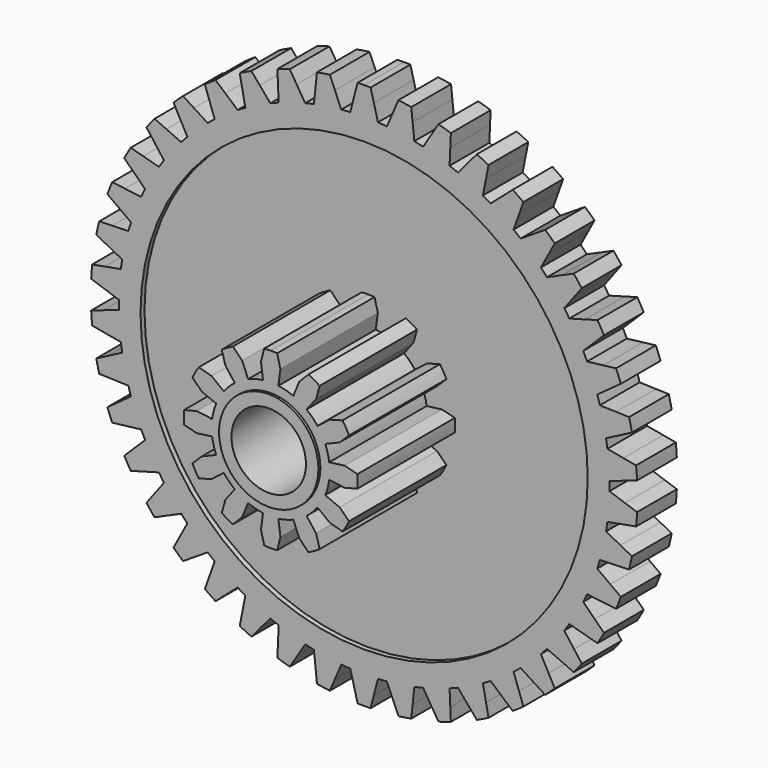
from build123d import *

# Parameters (mm, degrees)
F0_R      = 9.875
F1_DEPTH  = 2
F3_DEPTH  = 2
F4_R      = 9
F5_DEPTH  = 0.2
F7_DEPTH  = 4.9
F8_R      = 2
F9_DEPTH  = 0.1
F10_R     = 9
F11_DEPTH = 0.5
F14_R     = 1.5
F15_DEPTH = 25


with BuildPart() as f1:
    # F0 (on Front) → F1 (new body)
    with BuildSketch(Plane.XZ):
        Circle(F0_R)
    extrude(amount=F1_DEPTH)

    # F2 (on Front) → F3 (join)
    with BuildSketch(Plane.XZ):
        with BuildLine():
            Line((10.4339782039, 1.1756269991), (9.7900083646, 1.2928113632))
            ThreePointArc((9.7900083646, 1.2928113632), (9.8473874972, 0.7379596742), (9.8733455952, 0.1807533041))
            Line((9.8733455952, 0.1807533041), (10.4926574003, 0.3926075399))
            Line((10.4926574003, 0.3926075399), (10.9856720066, 0.561258019))
            ThreePointArc((10.9856720066, 0.561258019), (10.969241769, 0.8220310295), (10.946622294, 1.0823402207))
            Line((10.946622294, 1.0823402207), (10.4339782039, 1.1756269991))
        make_face()
        with BuildLine():
            Line((10.142221176, 2.7175999736), (9.4879785246, 2.737496761))
            ThreePointArc((9.4879785246, 2.737496761), (9.6274131328, 2.1973942228), (9.7361286005, 1.6502802413))
            Line((9.7361286005, 1.6502802413), (10.3169479689, 1.9520718752))
            Line((10.3169479689, 1.9520718752), (10.7793199598, 2.192318682))
            ThreePointArc((10.7793199598, 2.192318682), (10.724207034, 2.4477302735), (10.6630431281, 2.7017607683))
            Line((10.6630431281, 2.7017607683), (10.142221176, 2.7175999736))
        make_face()
        with BuildLine():
            Line((9.6239036866, 4.1988662554), (8.9740029228, 4.1210310047))
            ThreePointArc((8.9740029228, 4.1210310047), (9.1923782679, 3.6077426156), (9.3814225813, 3.0829426449))
            Line((9.3814225813, 3.0829426449), (9.9107749682, 3.4679301505))
            Line((9.9107749682, 3.4679301505), (10.3321757175, 3.7744065683))
            ThreePointArc((10.3321757175, 3.7744065683), (10.2396112351, 4.018751268), (10.1412691988, 4.2608284449))
            Line((10.1412691988, 4.2608284449), (9.6239036866, 4.1988662554))
        make_face()
        with BuildLine():
            Line((8.8906040919, 5.5863368034), (8.2595629248, 5.4125082255))
            ThreePointArc((8.2595629248, 5.4125082255), (8.5520008624, 4.9375), (8.8171510839, 4.4467372042))
            Line((8.8171510839, 4.4467372042), (9.2832116318, 4.9063205969))
            Line((9.2832116318, 4.9063205969), (9.654227743, 5.2721804489))
            ThreePointArc((9.654227743, 5.2721804489), (9.5262794416, 5.5), (9.3929560736, 5.7247162549))
            Line((9.3929560736, 5.7247162549), (8.8906040919, 5.5863368034))
        make_face()
        with BuildLine():
            Line((7.958703093, 6.8490178184), (7.3606179395, 6.5830789565))
            ThreePointArc((7.3606179395, 6.5830789565), (7.7205858894, 6.1569617934), (8.0559190012, 5.7111990024))
            Line((8.0559190012, 5.7111990024), (8.4482766876, 6.2351119485))
            Line((8.4482766876, 6.2351119485), (8.7606202739, 6.6521825303))
            ThreePointArc((8.7606202739, 6.6521825303), (8.6001463071, 6.8583878204), (8.4348198311, 7.0607233635))
            Line((8.4348198311, 7.0607233635), (7.958703093, 6.8490178184))
        make_face()
        with BuildLine():
            Line((6.8490178184, 7.958703093), (6.2972489126, 7.6065945819))
            ThreePointArc((6.2972489126, 7.6065945819), (6.7167057855, 7.2388872343), (7.114731, 6.8480820524))
            Line((7.114731, 6.8480820524), (7.4246212025, 7.4246212025))
            Line((7.4246212025, 7.4246212025), (7.6713150243, 7.8835858464))
            ThreePointArc((7.6713150243, 7.8835858464), (7.4819001155, 8.0635705901), (7.2882636517, 8.2390055797))
            Line((7.2882636517, 8.2390055797), (6.8490178184, 7.958703093))
        make_face()
        with BuildLine():
            Line((5.5863368034, 8.8906040919), (5.0932097508, 8.4601914538))
            ThreePointArc((5.0932097508, 8.4601914538), (5.5627855734, 8.1591078964), (6.0146116651, 7.8319902654))
            Line((6.0146116651, 7.8319902654), (6.2351119485, 8.4482766876))
            Line((6.2351119485, 8.4482766876), (6.4106452736, 8.9388828819))
            ThreePointArc((6.4106452736, 8.9388828819), (6.1965206387, 9.0886265175), (5.9788997058, 9.2332420258))
            Line((5.9788997058, 9.2332420258), (5.5863368034, 8.8906040919))
        make_face()
        with BuildLine():
            Line((4.1988662554, 9.6239036866), (3.7753966995, 9.1248016286))
            ThreePointArc((3.7753966995, 9.1248016286), (4.2846019238, 8.8970675705), (4.7801358444, 8.6409447579))
            Line((4.7801358444, 8.6409447579), (4.9063205969, 9.2832116318))
            Line((4.9063205969, 9.2832116318), (5.0067723007, 9.7945000449))
            ThreePointArc((5.0067723007, 9.7945000449), (4.7727211303, 9.9106575469), (4.5359770204, 10.0212231025))
            Line((4.5359770204, 10.0212231025), (4.1988662554, 9.6239036866))
        make_face()
        with BuildLine():
            Line((2.7175999736, 10.142221176), (2.3732475245, 9.5855788134))
            ThreePointArc((2.3732475245, 9.5855788134), (2.9107073473, 9.4362814571), (3.4388796879, 9.2568748232))
            Line((3.4388796879, 9.2568748232), (3.4679301505, 9.9107749682))
            Line((3.4679301505, 9.9107749682), (3.4910563081, 10.4313242617))
            ThreePointArc((3.4910563081, 10.4313242617), (3.2423069185, 10.5113008636), (2.9917281037, 10.5853466147))
            Line((2.9917281037, 10.5853466147), (2.7175999736, 10.142221176))
        make_face()
        with BuildLine():
            Line((1.1756269991, 10.4339782039), (0.9180839216, 9.8322300071))
            ThreePointArc((0.9180839216, 9.8322300071), (1.4717923785, 9.764704409), (2.0208046417, 9.6660216015))
            Line((2.0208046417, 9.6660216015), (1.9520718752, 10.3169479689))
            Line((1.9520718752, 10.3169479689), (1.8973558864, 10.8351299319))
            ThreePointArc((1.8973558864, 10.8351299319), (1.6394649279, 10.8771390885), (1.3806489249, 10.9130109753))
            Line((1.3806489249, 10.9130109753), (1.1756269991, 10.4339782039))
        make_face()
        with BuildLine():
            ThreePointArc((-2.0208046417, 9.6660216015), (-1.4717923785, 9.764704409), (-0.9180839216, 9.8322300071))
            Line((-0.9180839216, 9.8322300071), (-1.1756269991, 10.4339782039))
            Line((-1.1756269991, 10.4339782039), (-1.3806489249, 10.9130109753))
            ThreePointArc((-1.3806489249, 10.9130109753), (-1.6394649279, 10.8771390885), (-1.8973558864, 10.8351299319))
            Line((-1.8973558864, 10.8351299319), (-1.9520718752, 10.3169479689))
            Line((-1.9520718752, 10.3169479689), (-2.0208046417, 9.6660216015))
        make_face()
        with BuildLine():
            ThreePointArc((-3.4388796879, 9.2568748232), (-2.9107073473, 9.4362814571), (-2.3732475245, 9.5855788134))
            Line((-2.3732475245, 9.5855788134), (-2.7175999736, 10.142221176))
            Line((-2.7175999736, 10.142221176), (-2.9917281037, 10.5853466147))
            ThreePointArc((-2.9917281037, 10.5853466147), (-3.2423069185, 10.5113008636), (-3.4910563081, 10.4313242617))
            Line((-3.4910563081, 10.4313242617), (-3.4679301505, 9.9107749682))
            Line((-3.4679301505, 9.9107749682), (-3.4388796879, 9.2568748232))
        make_face()
        with BuildLine():
            ThreePointArc((-4.7801358444, 8.6409447579), (-4.2846019238, 8.8970675705), (-3.7753966995, 9.1248016286))
            Line((-3.7753966995, 9.1248016286), (-4.1988662554, 9.6239036866))
            Line((-4.1988662554, 9.6239036866), (-4.5359770204, 10.0212231025))
            ThreePointArc((-4.5359770204, 10.0212231025), (-4.7727211303, 9.9106575469), (-5.0067723007, 9.7945000449))
            Line((-5.0067723007, 9.7945000449), (-4.9063205969, 9.2832116318))
            Line((-4.9063205969, 9.2832116318), (-4.7801358444, 8.6409447579))
        make_face()
        with BuildLine():
            ThreePointArc((-6.0146116651, 7.8319902654), (-5.5627855734, 8.1591078964), (-5.0932097508, 8.4601914538))
            Line((-5.0932097508, 8.4601914538), (-5.5863368034, 8.8906040919))
            Line((-5.5863368034, 8.8906040919), (-5.9788997058, 9.2332420258))
            ThreePointArc((-5.9788997058, 9.2332420258), (-6.1965206387, 9.0886265175), (-6.4106452736, 8.9388828819))
            Line((-6.4106452736, 8.9388828819), (-6.2351119485, 8.4482766876))
            Line((-6.2351119485, 8.4482766876), (-6.0146116651, 7.8319902654))
        make_face()
        with BuildLine():
            ThreePointArc((-7.114731, 6.8480820524), (-6.7167057855, 7.2388872343), (-6.2972489126, 7.6065945819))
            Line((-6.2972489126, 7.6065945819), (-6.8490178184, 7.958703093))
            Line((-6.8490178184, 7.958703093), (-7.2882636517, 8.2390055797))
            ThreePointArc((-7.2882636517, 8.2390055797), (-7.4819001155, 8.0635705901), (-7.6713150243, 7.8835858464))
            Line((-7.6713150243, 7.8835858464), (-7.4246212025, 7.4246212025))
            Line((-7.4246212025, 7.4246212025), (-7.114731, 6.8480820524))
        make_face()
        with BuildLine():
            ThreePointArc((-8.0559190012, 5.7111990024), (-7.7205858894, 6.1569617934), (-7.3606179395, 6.5830789565))
            Line((-7.3606179395, 6.5830789565), (-7.958703093, 6.8490178184))
            Line((-7.958703093, 6.8490178184), (-8.4348198311, 7.0607233635))
            ThreePointArc((-8.4348198311, 7.0607233635), (-8.6001463071, 6.8583878204), (-8.7606202739, 6.6521825303))
            Line((-8.7606202739, 6.6521825303), (-8.4482766876, 6.2351119485))
            Line((-8.4482766876, 6.2351119485), (-8.0559190012, 5.7111990024))
        make_face()
        with BuildLine():
            ThreePointArc((-8.8171510839, 4.4467372042), (-8.5520008624, 4.9375), (-8.2595629248, 5.4125082255))
            Line((-8.2595629248, 5.4125082255), (-8.8906040919, 5.5863368034))
            Line((-8.8906040919, 5.5863368034), (-9.3929560736, 5.7247162549))
            ThreePointArc((-9.3929560736, 5.7247162549), (-9.5262794416, 5.5), (-9.654227743, 5.2721804489))
            Line((-9.654227743, 5.2721804489), (-9.2832116318, 4.9063205969))
            Line((-9.2832116318, 4.9063205969), (-8.8171510839, 4.4467372042))
        make_face()
        with BuildLine():
            ThreePointArc((-9.3814225813, 3.0829426449), (-9.1923782679, 3.6077426156), (-8.9740029228, 4.1210310047))
            Line((-8.9740029228, 4.1210310047), (-9.6239036866, 4.1988662554))
            Line((-9.6239036866, 4.1988662554), (-10.1412691988, 4.2608284449))
            ThreePointArc((-10.1412691988, 4.2608284449), (-10.2396112351, 4.018751268), (-10.3321757175, 3.7744065683))
            Line((-10.3321757175, 3.7744065683), (-9.9107749682, 3.4679301505))
            Line((-9.9107749682, 3.4679301505), (-9.3814225813, 3.0829426449))
        make_face()
        with BuildLine():
            ThreePointArc((-9.7361286005, 1.6502802413), (-9.6274131328, 2.1973942228), (-9.4879785246, 2.737496761))
            Line((-9.4879785246, 2.737496761), (-10.142221176, 2.7175999736))
            Line((-10.142221176, 2.7175999736), (-10.6630431281, 2.7017607683))
            ThreePointArc((-10.6630431281, 2.7017607683), (-10.724207034, 2.4477302735), (-10.7793199598, 2.192318682))
            Line((-10.7793199598, 2.192318682), (-10.3169479689, 1.9520718752))
            Line((-10.3169479689, 1.9520718752), (-9.7361286005, 1.6502802413))
        make_face()
        with BuildLine():
            ThreePointArc((-9.8733455952, 0.1807533041), (-9.8473874972, 0.7379596742), (-9.7900083646, 1.2928113632))
            Line((-9.7900083646, 1.2928113632), (-10.4339782039, 1.1756269991))
            Line((-10.4339782039, 1.1756269991), (-10.946622294, 1.0823402207))
            ThreePointArc((-10.946622294, 1.0823402207), (-10.969241769, 0.8220310295), (-10.9856720066, 0.561258019))
            Line((-10.9856720066, 0.561258019), (-10.4926574003, 0.3926075399))
            Line((-10.4926574003, 0.3926075399), (-9.8733455952, 0.1807533041))
        make_face()
        with BuildLine():
            ThreePointArc((-9.7900083646, -1.2928113632), (-9.8473874972, -0.7379596742), (-9.8733455952, -0.1807533041))
            Line((-9.8733455952, -0.1807533041), (-10.4926574003, -0.3926075399))
            Line((-10.4926574003, -0.3926075399), (-10.9856720066, -0.561258019))
            ThreePointArc((-10.9856720066, -0.561258019), (-10.969241769, -0.8220310295), (-10.946622294, -1.0823402207))
            Line((-10.946622294, -1.0823402207), (-10.4339782039, -1.1756269991))
            Line((-10.4339782039, -1.1756269991), (-9.7900083646, -1.2928113632))
        make_face()
        with BuildLine():
            ThreePointArc((-9.4879785246, -2.737496761), (-9.6274131328, -2.1973942228), (-9.7361286005, -1.6502802413))
            Line((-9.7361286005, -1.6502802413), (-10.3169479689, -1.9520718752))
            Line((-10.3169479689, -1.9520718752), (-10.7793199598, -2.192318682))
            ThreePointArc((-10.7793199598, -2.192318682), (-10.724207034, -2.4477302735), (-10.6630431281, -2.7017607683))
            Line((-10.6630431281, -2.7017607683), (-10.142221176, -2.7175999736))
            Line((-10.142221176, -2.7175999736), (-9.4879785246, -2.737496761))
        make_face()
        with BuildLine():
            ThreePointArc((-8.9740029228, -4.1210310047), (-9.1923782679, -3.6077426156), (-9.3814225813, -3.0829426449))
            Line((-9.3814225813, -3.0829426449), (-9.9107749682, -3.4679301505))
            Line((-9.9107749682, -3.4679301505), (-10.3321757175, -3.7744065683))
            ThreePointArc((-10.3321757175, -3.7744065683), (-10.2396112351, -4.018751268), (-10.1412691988, -4.2608284449))
            Line((-10.1412691988, -4.2608284449), (-9.6239036866, -4.1988662554))
            Line((-9.6239036866, -4.1988662554), (-8.9740029228, -4.1210310047))
        make_face()
        with BuildLine():
            ThreePointArc((-8.2595629248, -5.4125082255), (-8.5520008624, -4.9375), (-8.8171510839, -4.4467372042))
            Line((-8.8171510839, -4.4467372042), (-9.2832116318, -4.9063205969))
            Line((-9.2832116318, -4.9063205969), (-9.654227743, -5.2721804489))
            ThreePointArc((-9.654227743, -5.2721804489), (-9.5262794416, -5.5), (-9.3929560736, -5.7247162549))
            Line((-9.3929560736, -5.7247162549), (-8.8906040919, -5.5863368034))
            Line((-8.8906040919, -5.5863368034), (-8.2595629248, -5.4125082255))
        make_face()
        with BuildLine():
            ThreePointArc((-7.3606179395, -6.5830789565), (-7.7205858894, -6.1569617934), (-8.0559190012, -5.7111990024))
            Line((-8.0559190012, -5.7111990024), (-8.4482766876, -6.2351119485))
            Line((-8.4482766876, -6.2351119485), (-8.7606202739, -6.6521825303))
            ThreePointArc((-8.7606202739, -6.6521825303), (-8.6001463071, -6.8583878204), (-8.4348198311, -7.0607233635))
            Line((-8.4348198311, -7.0607233635), (-7.958703093, -6.8490178184))
            Line((-7.958703093, -6.8490178184), (-7.3606179395, -6.5830789565))
        make_face()
        with BuildLine():
            ThreePointArc((-6.2972489126, -7.6065945819), (-6.7167057855, -7.2388872343), (-7.114731, -6.8480820524))
            Line((-7.114731, -6.8480820524), (-7.4246212025, -7.4246212025))
            Line((-7.4246212025, -7.4246212025), (-7.6713150243, -7.8835858464))
            ThreePointArc((-7.6713150243, -7.8835858464), (-7.4819001155, -8.0635705901), (-7.2882636517, -8.2390055797))
            Line((-7.2882636517, -8.2390055797), (-6.8490178184, -7.958703093))
            Line((-6.8490178184, -7.958703093), (-6.2972489126, -7.6065945819))
        make_face()
        with BuildLine():
            ThreePointArc((-5.0932097508, -8.4601914538), (-5.5627855734, -8.1591078964), (-6.0146116651, -7.8319902654))
            Line((-6.0146116651, -7.8319902654), (-6.2351119485, -8.4482766876))
            Line((-6.2351119485, -8.4482766876), (-6.4106452736, -8.9388828819))
            ThreePointArc((-6.4106452736, -8.9388828819), (-6.1965206387, -9.0886265175), (-5.9788997058, -9.2332420258))
            Line((-5.9788997058, -9.2332420258), (-5.5863368034, -8.8906040919))
            Line((-5.5863368034, -8.8906040919), (-5.0932097508, -8.4601914538))
        make_face()
        with BuildLine():
            ThreePointArc((-3.7753966995, -9.1248016286), (-4.2846019238, -8.8970675705), (-4.7801358444, -8.6409447579))
            Line((-4.7801358444, -8.6409447579), (-4.9063205969, -9.2832116318))
            Line((-4.9063205969, -9.2832116318), (-5.0067723007, -9.7945000449))
            ThreePointArc((-5.0067723007, -9.7945000449), (-4.7727211303, -9.9106575469), (-4.5359770204, -10.0212231025))
            Line((-4.5359770204, -10.0212231025), (-4.1988662554, -9.6239036866))
            Line((-4.1988662554, -9.6239036866), (-3.7753966995, -9.1248016286))
        make_face()
        with BuildLine():
            ThreePointArc((-2.3732475245, -9.5855788134), (-2.9107073473, -9.4362814571), (-3.4388796879, -9.2568748232))
            Line((-3.4388796879, -9.2568748232), (-3.4679301505, -9.9107749682))
            Line((-3.4679301505, -9.9107749682), (-3.4910563081, -10.4313242617))
            ThreePointArc((-3.4910563081, -10.4313242617), (-3.2423069185, -10.5113008636), (-2.9917281037, -10.5853466147))
            Line((-2.9917281037, -10.5853466147), (-2.7175999736, -10.142221176))
            Line((-2.7175999736, -10.142221176), (-2.3732475245, -9.5855788134))
        make_face()
        with BuildLine():
            ThreePointArc((-0.9180839216, -9.8322300071), (-1.4717923785, -9.764704409), (-2.0208046417, -9.6660216015))
            Line((-2.0208046417, -9.6660216015), (-1.9520718752, -10.3169479689))
            Line((-1.9520718752, -10.3169479689), (-1.8973558864, -10.8351299319))
            ThreePointArc((-1.8973558864, -10.8351299319), (-1.6394649279, -10.8771390885), (-1.3806489249, -10.9130109753))
            Line((-1.3806489249, -10.9130109753), (-1.1756269991, -10.4339782039))
            Line((-1.1756269991, -10.4339782039), (-0.9180839216, -9.8322300071))
        make_face()
        with BuildLine():
            ThreePointArc((0.5575881591, -9.8592454298), (0, -9.875), (-0.5575881591, -9.8592454298))
            Line((-0.5575881591, -9.8592454298), (-0.3926075399, -10.4926574003))
            Line((-0.3926075399, -10.4926574003), (-0.2612716694, -10.9968967038))
            ThreePointArc((-0.2612716694, -10.9968967038), (0, -11), (0.2612716694, -10.9968967038))
            Line((0.2612716694, -10.9968967038), (0.3926075399, -10.4926574003))
            Line((0.3926075399, -10.4926574003), (0.5575881591, -9.8592454298))
        make_face()
        with BuildLine():
            Line((1.9520718752, -10.3169479689), (2.0208046417, -9.6660216015))
            ThreePointArc((2.0208046417, -9.6660216015), (1.4717923785, -9.764704409), (0.9180839216, -9.8322300071))
            Line((0.9180839216, -9.8322300071), (1.1756269991, -10.4339782039))
            Line((1.1756269991, -10.4339782039), (1.3806489249, -10.9130109753))
            ThreePointArc((1.3806489249, -10.9130109753), (1.6394649279, -10.8771390885), (1.8973558864, -10.8351299319))
            Line((1.8973558864, -10.8351299319), (1.9520718752, -10.3169479689))
        make_face()
        with BuildLine():
            Line((3.4679301505, -9.9107749682), (3.4388796879, -9.2568748232))
            ThreePointArc((3.4388796879, -9.2568748232), (2.9107073473, -9.4362814571), (2.3732475245, -9.5855788134))
            Line((2.3732475245, -9.5855788134), (2.7175999736, -10.142221176))
            Line((2.7175999736, -10.142221176), (2.9917281037, -10.5853466147))
            ThreePointArc((2.9917281037, -10.5853466147), (3.2423069185, -10.5113008636), (3.4910563081, -10.4313242617))
            Line((3.4910563081, -10.4313242617), (3.4679301505, -9.9107749682))
        make_face()
        with BuildLine():
            Line((4.9063205969, -9.2832116318), (4.7801358444, -8.6409447579))
            ThreePointArc((4.7801358444, -8.6409447579), (4.2846019238, -8.8970675705), (3.7753966995, -9.1248016286))
            Line((3.7753966995, -9.1248016286), (4.1988662554, -9.6239036866))
            Line((4.1988662554, -9.6239036866), (4.5359770204, -10.0212231025))
            ThreePointArc((4.5359770204, -10.0212231025), (4.7727211303, -9.9106575469), (5.0067723007, -9.7945000449))
            Line((5.0067723007, -9.7945000449), (4.9063205969, -9.2832116318))
        make_face()
        with BuildLine():
            Line((6.2351119485, -8.4482766876), (6.0146116651, -7.8319902654))
            ThreePointArc((6.0146116651, -7.8319902654), (5.5627855734, -8.1591078964), (5.0932097508, -8.4601914538))
            Line((5.0932097508, -8.4601914538), (5.5863368034, -8.8906040919))
            Line((5.5863368034, -8.8906040919), (5.9788997058, -9.2332420258))
            ThreePointArc((5.9788997058, -9.2332420258), (6.1965206387, -9.0886265175), (6.4106452736, -8.9388828819))
            Line((6.4106452736, -8.9388828819), (6.2351119485, -8.4482766876))
        make_face()
        with BuildLine():
            Line((7.4246212025, -7.4246212025), (7.114731, -6.8480820524))
            ThreePointArc((7.114731, -6.8480820524), (6.7167057855, -7.2388872343), (6.2972489126, -7.6065945819))
            Line((6.2972489126, -7.6065945819), (6.8490178184, -7.958703093))
            Line((6.8490178184, -7.958703093), (7.2882636517, -8.2390055797))
            ThreePointArc((7.2882636517, -8.2390055797), (7.4819001155, -8.0635705901), (7.6713150243, -7.8835858464))
            Line((7.6713150243, -7.8835858464), (7.4246212025, -7.4246212025))
        make_face()
        with BuildLine():
            Line((8.4482766876, -6.2351119485), (8.0559190012, -5.7111990024))
            ThreePointArc((8.0559190012, -5.7111990024), (7.7205858894, -6.1569617934), (7.3606179395, -6.5830789565))
            Line((7.3606179395, -6.5830789565), (7.958703093, -6.8490178184))
            Line((7.958703093, -6.8490178184), (8.4348198311, -7.0607233635))
            ThreePointArc((8.4348198311, -7.0607233635), (8.6001463071, -6.8583878204), (8.7606202739, -6.6521825303))
            Line((8.7606202739, -6.6521825303), (8.4482766876, -6.2351119485))
        make_face()
        with BuildLine():
            Line((9.2832116318, -4.9063205969), (8.8171510839, -4.4467372042))
            ThreePointArc((8.8171510839, -4.4467372042), (8.5520008624, -4.9375), (8.2595629248, -5.4125082255))
            Line((8.2595629248, -5.4125082255), (8.8906040919, -5.5863368034))
            Line((8.8906040919, -5.5863368034), (9.3929560736, -5.7247162549))
            ThreePointArc((9.3929560736, -5.7247162549), (9.5262794416, -5.5), (9.654227743, -5.2721804489))
            Line((9.654227743, -5.2721804489), (9.2832116318, -4.9063205969))
        make_face()
        with BuildLine():
            Line((9.9107749682, -3.4679301505), (9.3814225813, -3.0829426449))
            ThreePointArc((9.3814225813, -3.0829426449), (9.1923782679, -3.6077426156), (8.9740029228, -4.1210310047))
            Line((8.9740029228, -4.1210310047), (9.6239036866, -4.1988662554))
            Line((9.6239036866, -4.1988662554), (10.1412691988, -4.2608284449))
            ThreePointArc((10.1412691988, -4.2608284449), (10.2396112351, -4.018751268), (10.3321757175, -3.7744065683))
            Line((10.3321757175, -3.7744065683), (9.9107749682, -3.4679301505))
        make_face()
        with BuildLine():
            Line((10.3169479689, -1.9520718752), (9.7361286005, -1.6502802413))
            ThreePointArc((9.7361286005, -1.6502802413), (9.6274131328, -2.1973942228), (9.4879785246, -2.737496761))
            Line((9.4879785246, -2.737496761), (10.142221176, -2.7175999736))
            Line((10.142221176, -2.7175999736), (10.6630431281, -2.7017607683))
            ThreePointArc((10.6630431281, -2.7017607683), (10.724207034, -2.4477302735), (10.7793199598, -2.192318682))
            Line((10.7793199598, -2.192318682), (10.3169479689, -1.9520718752))
        make_face()
        with BuildLine():
            Line((10.4926574003, -0.3926075399), (9.8733455952, -0.1807533041))
            ThreePointArc((9.8733455952, -0.1807533041), (9.8473874972, -0.7379596742), (9.7900083646, -1.2928113632))
            Line((9.7900083646, -1.2928113632), (10.4339782039, -1.1756269991))
            Line((10.4339782039, -1.1756269991), (10.946622294, -1.0823402207))
            ThreePointArc((10.946622294, -1.0823402207), (10.969241769, -0.8220310295), (10.9856720066, -0.561258019))
            Line((10.9856720066, -0.561258019), (10.4926574003, -0.3926075399))
        make_face()
        with BuildLine():
            Line((-0.3692380435, 9.8680944598), (-0.3926075399, 10.4926574003))
            Line((-0.3926075399, 10.4926574003), (-0.5575881591, 9.8592454298))
            ThreePointArc((-0.5575881591, 9.8592454298), (-0.4634342227, 9.8641195107), (-0.3692380435, 9.8680944598))
        make_face()
        with BuildLine():
            ThreePointArc((0.2612716694, 10.9968967038), (0.1306450493, 10.9992241486), (0, 11))
            Line((0, 11), (0, 10.5))
            ThreePointArc((0, 10.5), (0.1963380975, 10.4981641896), (0.3926075399, 10.4926574003))
            Line((0.3926075399, 10.4926574003), (0.2612716694, 10.9968967038))
        make_face()
        with BuildLine():
            ThreePointArc((0.3926075399, 10.4926574003), (0.1963380975, 10.4981641896), (0, 10.5))
            Line((0, 10.5), (0, 9.875))
            ThreePointArc((0, 9.875), (0.2789053431, 9.8710605717), (0.5575881591, 9.8592454298))
            Line((0.5575881591, 9.8592454298), (0.3926075399, 10.4926574003))
        make_face()
        with BuildLine():
            Line((0, 10.5), (0, 11))
            ThreePointArc((0, 11), (-0.1306450493, 10.9992241486), (-0.2612716694, 10.9968967038))
            Line((-0.2612716694, 10.9968967038), (-0.3926075399, 10.4926574003))
            ThreePointArc((-0.3926075399, 10.4926574003), (-0.1963380975, 10.4981641896), (0, 10.5))
        make_face()
        with BuildLine():
            Line((0, 9.875), (0, 10.5))
            ThreePointArc((0, 10.5), (-0.1963380975, 10.4981641896), (-0.3926075399, 10.4926574003))
            Line((-0.3926075399, 10.4926574003), (-0.3692380435, 9.8680944598))
            ThreePointArc((-0.3692380435, 9.8680944598), (-0.184651306, 9.873273464), (0, 9.875))
        make_face()
    extrude(amount=F3_DEPTH)

    # F4 (on face) → F5 (cut)
    with BuildSketch(Plane.XZ.offset(2)):
        Circle(F4_R)
    extrude(amount=-F5_DEPTH, mode=Mode.SUBTRACT)

    # F6 (on face) → F7 (join)
    with BuildSketch(Plane.XZ.offset(1.8)):
        with BuildLine():
            ThreePointArc((1.8842141832, 1.4458083939), (2.056810334, 1.1875), (2.1942138897, 0.9088731519))
            Line((2.1942138897, 0.9088731519), (2.7716385975, 1.1480502971))
            Line((2.7716385975, 1.1480502971), (3.1523333906, 1.5207873601))
            ThreePointArc((3.1523333906, 1.5207873601), (3.0310889132, 1.75), (2.8932071829, 1.9696071174))
            Line((2.8932071829, 1.9696071174), (2.3800600209, 1.826284287))
            Line((2.3800600209, 1.826284287), (1.8842141832, 1.4458083939))
        make_face()
        with BuildLine():
            ThreePointArc((0.9088731519, 2.1942138897), (1.1875, 2.056810334), (1.4458083939, 1.8842141832))
            Line((1.4458083939, 1.8842141832), (1.826284287, 2.3800600209))
            Line((1.826284287, 2.3800600209), (1.9696071174, 2.8932071829))
            ThreePointArc((1.9696071174, 2.8932071829), (1.75, 3.0310889132), (1.5207873601, 3.1523333906))
            Line((1.5207873601, 3.1523333906), (1.1480502971, 2.7716385975))
            Line((1.1480502971, 2.7716385975), (0.9088731519, 2.1942138897))
        make_face()
        with BuildLine():
            ThreePointArc((-1.4458083939, 1.8842141832), (-1.1875, 2.056810334), (-0.9088731519, 2.1942138897))
            Line((-0.9088731519, 2.1942138897), (-1.1480502971, 2.7716385975))
            Line((-1.1480502971, 2.7716385975), (-1.5207873601, 3.1523333906))
            ThreePointArc((-1.5207873601, 3.1523333906), (-1.75, 3.0310889132), (-1.9696071174, 2.8932071829))
            Line((-1.9696071174, 2.8932071829), (-1.826284287, 2.3800600209))
            Line((-1.826284287, 2.3800600209), (-1.4458083939, 1.8842141832))
        make_face()
        with BuildLine():
            ThreePointArc((-2.1942138897, 0.9088731519), (-2.056810334, 1.1875), (-1.8842141832, 1.4458083939))
            Line((-1.8842141832, 1.4458083939), (-2.3800600209, 1.826284287))
            Line((-2.3800600209, 1.826284287), (-2.8932071829, 1.9696071174))
            ThreePointArc((-2.8932071829, 1.9696071174), (-3.0310889132, 1.75), (-3.1523333906, 1.5207873601))
            Line((-3.1523333906, 1.5207873601), (-2.7716385975, 1.1480502971))
            Line((-2.7716385975, 1.1480502971), (-2.1942138897, 0.9088731519))
        make_face()
        with BuildLine():
            Line((-2.9743345841, -0.3915785767), (-2.3546815458, -0.3099997065))
            ThreePointArc((-2.3546815458, -0.3099997065), (-2.375, 0), (-2.3546815458, 0.3099997065))
            Line((-2.3546815458, 0.3099997065), (-2.9743345841, 0.3915785767))
            Line((-2.9743345841, 0.3915785767), (-3.4903944775, 0.2591262077))
            ThreePointArc((-3.4903944775, 0.2591262077), (-3.5, 0), (-3.4903944775, -0.2591262077))
            Line((-3.4903944775, -0.2591262077), (-2.9743345841, -0.3915785767))
        make_face()
        with BuildLine():
            Line((-2.3800600209, -1.826284287), (-1.8842141832, -1.4458083939))
            ThreePointArc((-1.8842141832, -1.4458083939), (-2.056810334, -1.1875), (-2.1942138897, -0.9088731519))
            Line((-2.1942138897, -0.9088731519), (-2.7716385975, -1.1480502971))
            Line((-2.7716385975, -1.1480502971), (-3.1523333906, -1.5207873601))
            ThreePointArc((-3.1523333906, -1.5207873601), (-3.0310889132, -1.75), (-2.8932071829, -1.9696071174))
            Line((-2.8932071829, -1.9696071174), (-2.3800600209, -1.826284287))
        make_face()
        with BuildLine():
            Line((-1.1480502971, -2.7716385975), (-0.9088731519, -2.1942138897))
            ThreePointArc((-0.9088731519, -2.1942138897), (-1.1875, -2.056810334), (-1.4458083939, -1.8842141832))
            Line((-1.4458083939, -1.8842141832), (-1.826284287, -2.3800600209))
            Line((-1.826284287, -2.3800600209), (-1.9696071174, -2.8932071829))
            ThreePointArc((-1.9696071174, -2.8932071829), (-1.75, -3.0310889132), (-1.5207873601, -3.1523333906))
            Line((-1.5207873601, -3.1523333906), (-1.1480502971, -2.7716385975))
        make_face()
        with BuildLine():
            Line((0.3915785767, -2.9743345841), (0.3099997065, -2.3546815458))
            ThreePointArc((0.3099997065, -2.3546815458), (0, -2.375), (-0.3099997065, -2.3546815458))
            Line((-0.3099997065, -2.3546815458), (-0.3915785767, -2.9743345841))
            Line((-0.3915785767, -2.9743345841), (-0.2591262077, -3.4903944775))
            ThreePointArc((-0.2591262077, -3.4903944775), (0, -3.5), (0.2591262077, -3.4903944775))
            Line((0.2591262077, -3.4903944775), (0.3915785767, -2.9743345841))
        make_face()
        with BuildLine():
            Line((1.826284287, -2.3800600209), (1.4458083939, -1.8842141832))
            ThreePointArc((1.4458083939, -1.8842141832), (1.1875, -2.056810334), (0.9088731519, -2.1942138897))
            Line((0.9088731519, -2.1942138897), (1.1480502971, -2.7716385975))
            Line((1.1480502971, -2.7716385975), (1.5207873601, -3.1523333906))
            ThreePointArc((1.5207873601, -3.1523333906), (1.75, -3.0310889132), (1.9696071174, -2.8932071829))
            Line((1.9696071174, -2.8932071829), (1.826284287, -2.3800600209))
        make_face()
        with BuildLine():
            Line((2.7716385975, -1.1480502971), (2.1942138897, -0.9088731519))
            ThreePointArc((2.1942138897, -0.9088731519), (2.056810334, -1.1875), (1.8842141832, -1.4458083939))
            Line((1.8842141832, -1.4458083939), (2.3800600209, -1.826284287))
            Line((2.3800600209, -1.826284287), (2.8932071829, -1.9696071174))
            ThreePointArc((2.8932071829, -1.9696071174), (3.0310889132, -1.75), (3.1523333906, -1.5207873601))
            Line((3.1523333906, -1.5207873601), (2.7716385975, -1.1480502971))
        make_face()
        with BuildLine():
            ThreePointArc((2.3546815458, 0.3099997065), (2.3699149427, 0.1553324319), (2.375, 0))
            ThreePointArc((2.375, 0), (2.3699149427, -0.1553324319), (2.3546815458, -0.3099997065))
            Line((2.3546815458, -0.3099997065), (2.9743345841, -0.3915785767))
            Line((2.9743345841, -0.3915785767), (3.4903944775, -0.2591262077))
            ThreePointArc((3.4903944775, -0.2591262077), (3.5, 0), (3.4903944775, 0.2591262077))
            Line((3.4903944775, 0.2591262077), (2.9743345841, 0.3915785767))
            Line((2.9743345841, 0.3915785767), (2.3546815458, 0.3099997065))
        make_face()
        with BuildLine():
            Line((0, 0), (0.3099997065, 2.3546815458))
            ThreePointArc((0.3099997065, 2.3546815458), (0.1553324319, 2.3699149427), (0, 2.375))
            Line((0, 2.375), (0, 0))
        make_face()
        with BuildLine():
            Line((0, 0), (0, 2.375))
            ThreePointArc((0, 2.375), (-0.1553324319, 2.3699149427), (-0.3099997065, 2.3546815458))
            Line((-0.3099997065, 2.3546815458), (0, 0))
        make_face()
        with BuildLine():
            ThreePointArc((0, 2.375), (0.1553324319, 2.3699149427), (0.3099997065, 2.3546815458))
            Line((0.3099997065, 2.3546815458), (0.3915785767, 2.9743345841))
            ThreePointArc((0.3915785767, 2.9743345841), (0.1962093877, 2.9935767697), (0, 3))
            Line((0, 3), (0, 2.375))
        make_face()
        with BuildLine():
            ThreePointArc((-0.3099997065, 2.3546815458), (-0.1553324319, 2.3699149427), (0, 2.375))
            Line((0, 2.375), (0, 3))
            ThreePointArc((0, 3), (-0.1962093877, 2.9935767697), (-0.3915785767, 2.9743345841))
            Line((-0.3915785767, 2.9743345841), (-0.3099997065, 2.3546815458))
        make_face()
        with BuildLine():
            ThreePointArc((0, 3), (0.1962093877, 2.9935767697), (0.3915785767, 2.9743345841))
            Line((0.3915785767, 2.9743345841), (0.2591262077, 3.4903944775))
            ThreePointArc((0.2591262077, 3.4903944775), (0.1296520898, 3.497597795), (0, 3.5))
            Line((0, 3.5), (0, 3))
        make_face()
        with BuildLine():
            ThreePointArc((-0.3915785767, 2.9743345841), (-0.1962093877, 2.9935767697), (0, 3))
            Line((0, 3), (0, 3.5))
            ThreePointArc((0, 3.5), (-0.1296520898, 3.497597795), (-0.2591262077, 3.4903944775))
            Line((-0.2591262077, 3.4903944775), (-0.3915785767, 2.9743345841))
        make_face()
        with BuildLine():
            ThreePointArc((2.3546815458, -0.3099997065), (2.3699149427, -0.1553324319), (2.375, 0))
            ThreePointArc((2.375, 0), (2.3699149427, 0.1553324319), (2.3546815458, 0.3099997065))
            ThreePointArc((2.3546815458, 0.3099997065), (2.2940738374, 0.6146952321), (2.1942138897, 0.9088731519))
            ThreePointArc((2.1942138897, 0.9088731519), (2.056810334, 1.1875), (1.8842141832, 1.4458083939))
            ThreePointArc((1.8842141832, 1.4458083939), (1.6793786053, 1.6793786053), (1.4458083939, 1.8842141832))
            ThreePointArc((1.4458083939, 1.8842141832), (1.1875, 2.056810334), (0.9088731519, 2.1942138897))
            ThreePointArc((0.9088731519, 2.1942138897), (0.6146952321, 2.2940738374), (0.3099997065, 2.3546815458))
            Line((0.3099997065, 2.3546815458), (0, 0))
            Line((0, 0), (-0.3099997065, 2.3546815458))
            ThreePointArc((-0.3099997065, 2.3546815458), (-0.6146952321, 2.2940738374), (-0.9088731519, 2.1942138897))
            ThreePointArc((-0.9088731519, 2.1942138897), (-1.1875, 2.056810334), (-1.4458083939, 1.8842141832))
            ThreePointArc((-1.4458083939, 1.8842141832), (-1.6793786053, 1.6793786053), (-1.8842141832, 1.4458083939))
            ThreePointArc((-1.8842141832, 1.4458083939), (-2.056810334, 1.1875), (-2.1942138897, 0.9088731519))
            ThreePointArc((-2.1942138897, 0.9088731519), (-2.2940738374, 0.6146952321), (-2.3546815458, 0.3099997065))
            ThreePointArc((-2.3546815458, 0.3099997065), (-2.375, 0), (-2.3546815458, -0.3099997065))
            ThreePointArc((-2.3546815458, -0.3099997065), (-2.2940738374, -0.6146952321), (-2.1942138897, -0.9088731519))
            ThreePointArc((-2.1942138897, -0.9088731519), (-2.056810334, -1.1875), (-1.8842141832, -1.4458083939))
            ThreePointArc((-1.8842141832, -1.4458083939), (-1.6793786053, -1.6793786053), (-1.4458083939, -1.8842141832))
            ThreePointArc((-1.4458083939, -1.8842141832), (-1.1875, -2.056810334), (-0.9088731519, -2.1942138897))
            ThreePointArc((-0.9088731519, -2.1942138897), (-0.6146952321, -2.2940738374), (-0.3099997065, -2.3546815458))
            ThreePointArc((-0.3099997065, -2.3546815458), (0, -2.375), (0.3099997065, -2.3546815458))
            ThreePointArc((0.3099997065, -2.3546815458), (0.6146952321, -2.2940738374), (0.9088731519, -2.1942138897))
            ThreePointArc((0.9088731519, -2.1942138897), (1.1875, -2.056810334), (1.4458083939, -1.8842141832))
            ThreePointArc((1.4458083939, -1.8842141832), (1.6793786053, -1.6793786053), (1.8842141832, -1.4458083939))
            ThreePointArc((1.8842141832, -1.4458083939), (2.056810334, -1.1875), (2.1942138897, -0.9088731519))
            ThreePointArc((2.1942138897, -0.9088731519), (2.2940738374, -0.6146952321), (2.3546815458, -0.3099997065))
        make_face()
    extrude(amount=F7_DEPTH)

    # F8 (on face) → F9 (join)
    with BuildSketch(Plane.XZ.offset(6.7)):
        Circle(F8_R)
    extrude(amount=F9_DEPTH)

    # F10 (on face) → F11 (cut)
    with BuildSketch(Plane(origin=(0, 0, 0), x_dir=(-1, 0, 0), z_dir=(0, 1, 0))):
        Circle(F10_R)
    extrude(amount=-F11_DEPTH, mode=Mode.SUBTRACT)

    # F12 (on Top) → F13 (revolve)
    with BuildSketch(Plane.XY):
        with BuildLine():
            Line((5.5, -0.5), (6.5, -0.5))
            ThreePointArc((6.5, -0.5), (6, 0), (5.5, -0.5))
        make_face()
    revolve(axis=Axis((0, 3.4054578282, 0), (0, 1, 0)))

    # F14 (on face) → F15 (cut)
    with BuildSketch(Plane.XZ.offset(6.8)):
        Circle(F14_R)
    extrude(amount=-F15_DEPTH, mode=Mode.SUBTRACT)


solid = f1.part
